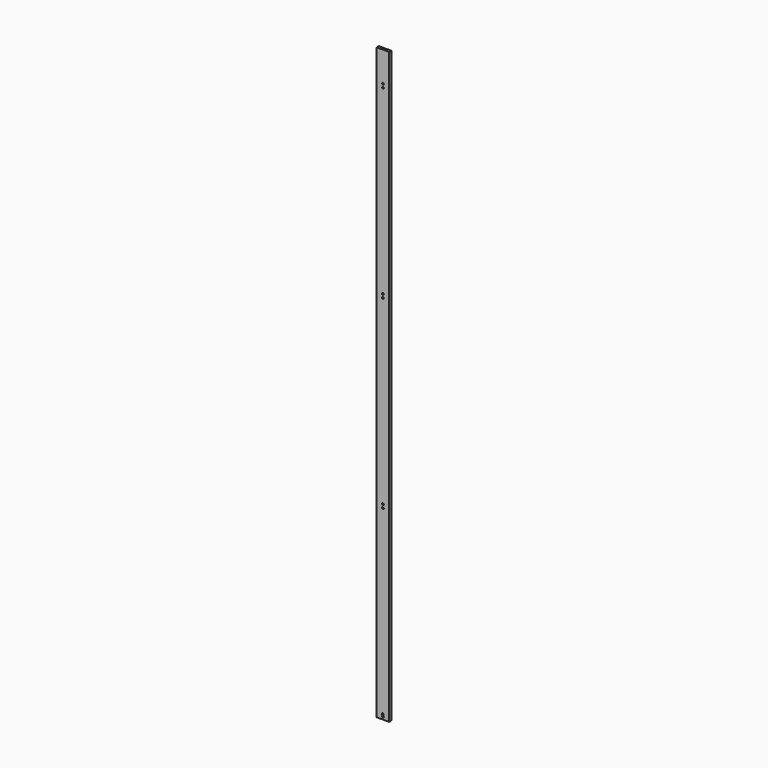
from build123d import *

# Parameters (mm, degrees)
F0_W     = 177.8
F0_H     = 8420.1
F0_R     = 12.7
F1_DEPTH = 38.1


with BuildPart() as f1:
    # F0 (on Front) → F1 (new body)
    with BuildSketch(Plane.XZ):
        with Locations((-419.728737, 2252.63549)):
            Rectangle(F0_W, F0_H)
        with Locations((-422.268737, -1890.582332)):
            Circle(F0_R, mode=Mode.SUBTRACT)
        with Locations((-419.728737, -1919.31451)):
            Circle(F0_R, mode=Mode.SUBTRACT)
        with Locations((-419.728737, 700.216423)):
            Circle(F0_R, mode=Mode.SUBTRACT)
        with Locations((-419.728737, 751.016423)):
            Circle(F0_R, mode=Mode.SUBTRACT)
        with Locations((-419.728737, 3341.816423)):
            Circle(F0_R, mode=Mode.SUBTRACT)
        with Locations((-419.728737, 3392.616423)):
            Circle(F0_R, mode=Mode.SUBTRACT)
        with Locations((-419.728737, 5983.416423)):
            Circle(F0_R, mode=Mode.SUBTRACT)
        with Locations((-419.728737, 6034.216423)):
            Circle(F0_R, mode=Mode.SUBTRACT)
    extrude(amount=F1_DEPTH)


solid = f1.part
